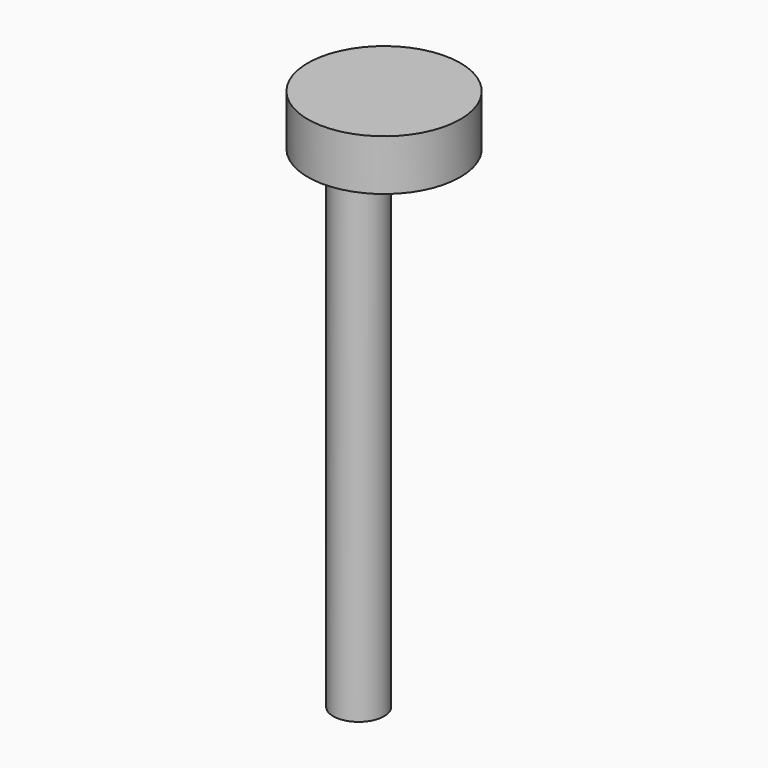
from build123d import *

# Parameters (mm, degrees)
F0_R     = 4.7625
F1_DEPTH = 80.8482
F2_R     = 14.2875
F3_DEPTH = 9.525
F4_DEPTH = 12.7


with BuildPart() as f1:
    # F0 (on Top) → F1 (new body)
    with BuildSketch(Plane.XY):
        with Locations((-7.290369, -2.118148)):
            Circle(F0_R)
    extrude(amount=F1_DEPTH)

    # F2 (on face) → F3 (join)
    with BuildSketch(Plane.XY.offset(80.8482)):
        with Locations((-2.527869, -2.118148)):
            Circle(F2_R)
    extrude(amount=F3_DEPTH)

    # F0 (on Top) → F4 (join)
    with BuildSketch(Plane.XY):
        with Locations((-7.290369, -2.118148)):
            Circle(F0_R)
    extrude(amount=-F4_DEPTH)


solid = f1.part
